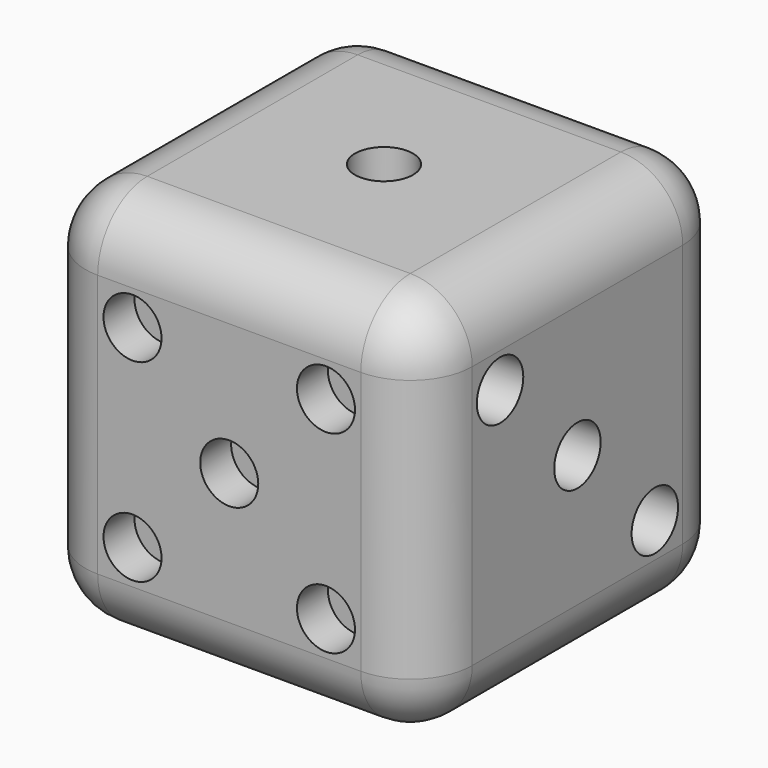
from build123d import *

# Parameters (mm, degrees)
F0_W      = 20
F0_H      = 20
F1_DEPTH  = 20
F2_R      = 1.5
F3_DEPTH  = 2
F4_R      = 1.5
F5_DEPTH  = 2
F6_R      = 1.5
F7_DEPTH  = 2
F8_R      = 1.5
F9_DEPTH  = 2
F10_R     = 1.5
F11_DEPTH = 2
F12_R     = 1.5
F13_DEPTH = 2
F14_R     = 3.2


with BuildPart() as f1:
    # F0 (on Top) → F1 (new body)
    with BuildSketch(Plane.XY):
        Rectangle(F0_W, F0_H)
    extrude(amount=F1_DEPTH)

    # F2 (on face) → F3 (cut)
    with BuildSketch(Plane.XY):
        with Locations((-5, 5)):
            Circle(F2_R)
        with Locations((5, 5)):
            Circle(F2_R)
        with Locations((-5, 0)):
            Circle(F2_R)
        with Locations((5, 0)):
            Circle(F2_R)
        with Locations((-5, -5)):
            Circle(F2_R)
        with Locations((5, -5)):
            Circle(F2_R)
    extrude(amount=F3_DEPTH, mode=Mode.SUBTRACT)

    # F4 (on face) → F5 (cut)
    with BuildSketch(Plane.XY.offset(20)):
        Circle(F4_R)
    extrude(amount=-F5_DEPTH, mode=Mode.SUBTRACT)

    # F6 (on face) → F7 (cut)
    with BuildSketch(Plane.XZ.offset(10)):
        with Locations((0, 10)):
            Circle(F6_R)
        with Locations((-5, 5)):
            Circle(F6_R)
        with Locations((-5, 15)):
            Circle(F6_R)
        with Locations((5, 5)):
            Circle(F6_R)
        with Locations((5, 15)):
            Circle(F6_R)
    extrude(amount=-F7_DEPTH, mode=Mode.SUBTRACT)

    # F8 (on face) → F9 (cut)
    with BuildSketch(Plane(origin=(-10, 0, 0), x_dir=(0, -1, 0), z_dir=(-1, 0, 0))):
        with Locations((-5, 5)):
            Circle(F8_R)
        with Locations((-5, 15)):
            Circle(F8_R)
        with Locations((5, 5)):
            Circle(F8_R)
        with Locations((5, 15)):
            Circle(F8_R)
    extrude(amount=-F9_DEPTH, mode=Mode.SUBTRACT)

    # F10 (on face) → F11 (cut)
    with BuildSketch(Plane.YZ.offset(10)):
        with Locations((5, 5)):
            Circle(F10_R)
        with Locations((0, 10)):
            Circle(F10_R)
        with Locations((-5, 15)):
            Circle(F10_R)
    extrude(amount=-F11_DEPTH, mode=Mode.SUBTRACT)

    # F12 (on face) → F13 (cut)
    with BuildSketch(Plane(origin=(0, 10, 0), x_dir=(-1, 0, 0), z_dir=(0, 1, 0))):
        with Locations((0, 5)):
            Circle(F12_R)
        with Locations((0, 15)):
            Circle(F12_R)
    extrude(amount=-F13_DEPTH, mode=Mode.SUBTRACT)

    # F14
    f14_edges = [f1.edges().sort_by_distance(p)[0] for p in [
        (10, 0, 20),
        (10, 10, 10),
        (0, 10, 20),
        (10, -10, 10),
        (10, 0, 0),
        (0, 10, 0),
        (0, -10, 20),
        (-10, 0, 20),
        (0, -10, 0),
        (-10, 0, 0),
        (-10, -10, 10),
        (-10, 10, 10),
    ]]
    fillet(f14_edges, radius=F14_R)


solid = f1.part
